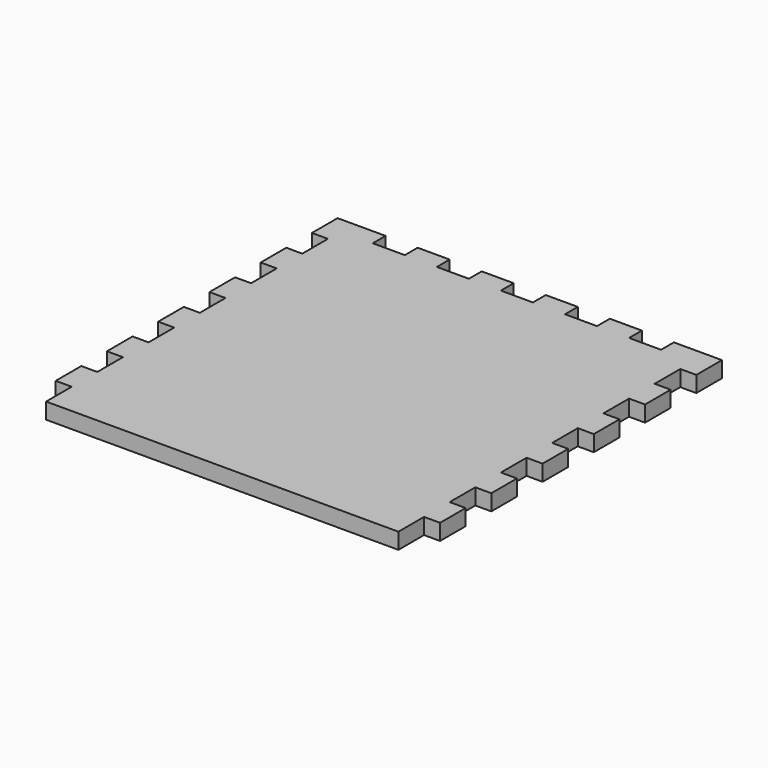
from build123d import *

# Parameters (mm, degrees)
F1_DEPTH = 12.7


with BuildPart() as f1:
    # F0 (on Top) → F1 (new body)
    with BuildSketch(Plane.XY):
        Polygon((-114.3, 152.4), (-152.4, 152.4), (-152.4, 127), (-139.7, 127), (-139.7, 101.6), (-152.4, 101.6), (-152.4, 76.2), (-139.7, 76.2), (-139.7, 50.8), (-152.4, 50.8), (-152.4, 25.4), (-139.7, 25.4), (-139.7, 0), (-152.4, 0), (-152.4, -25.4), (-139.7, -25.4), (-139.7, -50.8), (-152.4, -50.8), (-152.4, -76.2), (-139.7, -76.2), (-139.7, -101.6), (-152.4, -101.6), (-152.4, -127), (-139.7, -127), (-139.7, -152.4), (139.7, -152.4), (139.7, -127), (152.4, -127), (152.4, -101.6), (139.7, -101.6), (139.7, -76.2), (152.4, -76.2), (152.4, -50.8), (139.7, -50.8), (139.7, -25.4), (152.4, -25.4), (152.4, 0), (139.7, 0), (139.7, 25.4), (152.4, 25.4), (152.4, 50.8), (139.7, 50.8), (139.7, 76.2), (152.4, 76.2), (152.4, 101.6), (139.7, 101.6), (139.7, 127), (152.4, 127), (152.4, 152.4), (114.3, 152.4), (114.3, 139.7), (88.9, 139.7), (88.9, 152.4), (63.5, 152.4), (63.5, 139.7), (38.1, 139.7), (38.1, 152.4), (12.7, 152.4), (12.7, 139.7), (-12.7, 139.7), (-12.7, 152.4), (-38.1, 152.4), (-38.1, 139.7), (-63.5, 139.7), (-63.5, 152.4), (-88.9, 152.4), (-88.9, 139.7), (-114.3, 139.7), align=None)
    extrude(amount=F1_DEPTH)


solid = f1.part
